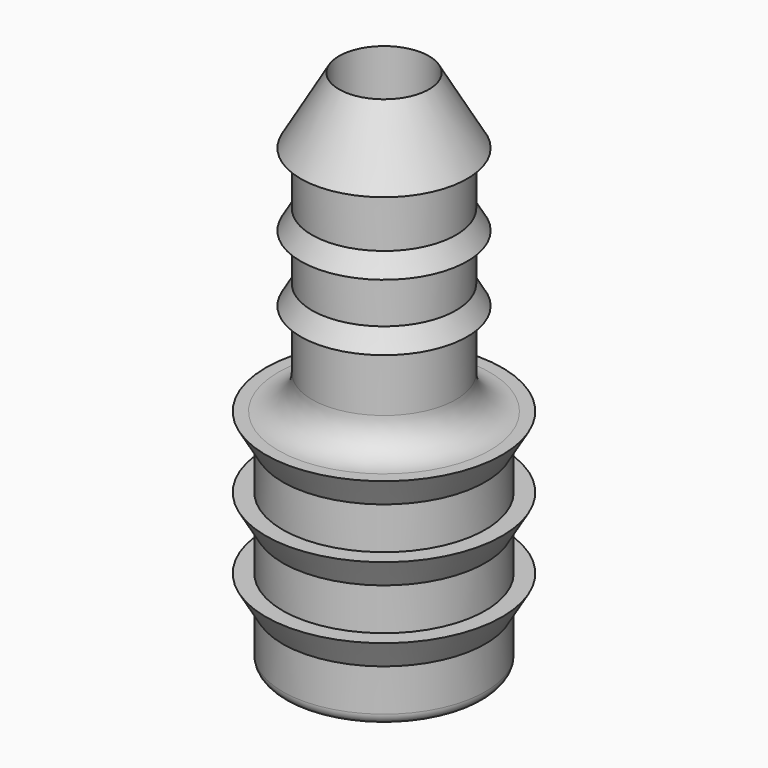
from build123d import *


with BuildPart() as f1:
    # F0 (on Front) → F1 (revolve)
    with BuildSketch(Plane.XZ):
        with BuildLine():
            Line((-4, 9.278649), (-2, 9.278649))
            Line((-2, 9.278649), (-2, 32.519547))
            Line((-2, 32.519547), (-3.7, 29.575061))
            Line((-3.7, 29.575061), (-3.2, 29.575061))
            Line((-3.2, 29.575061), (-3.2, 27.213341))
            Line((-3.2, 27.213341), (-3.7, 26.347315))
            Line((-3.7, 26.347315), (-3.2, 26.347315))
            Line((-3.2, 26.347315), (-3.2, 24.264861))
            Line((-3.2, 24.264861), (-3.7, 23.398835))
            Line((-3.7, 23.398835), (-3.2, 23.398835))
            Line((-3.2, 23.398835), (-3.2, 20.778649))
            ThreePointArc((-3.2, 20.778649), (-3.63934, 19.717989), (-4.7, 19.278649))
            Line((-4.7, 19.278649), (-5.25, 19.278649))
            Line((-5.25, 19.278649), (-4.5, 17.979611))
            Line((-4.5, 17.979611), (-4.5, 16.111982))
            Line((-4.5, 16.111982), (-5.25, 16.111982))
            Line((-5.25, 16.111982), (-4.5, 14.812944))
            Line((-4.5, 14.812944), (-4.5, 12.945316))
            Line((-4.5, 12.945316), (-5.25, 12.945316))
            Line((-5.25, 12.945316), (-4.5, 11.646278))
            Line((-4.5, 11.646278), (-4.5, 9.778649))
            ThreePointArc((-4.5, 9.778649), (-4.353553, 9.425096), (-4, 9.278649))
        make_face()
    revolve(axis=Axis((0, 0, 13.09317), (0, 0, 1)))


solid = f1.part
